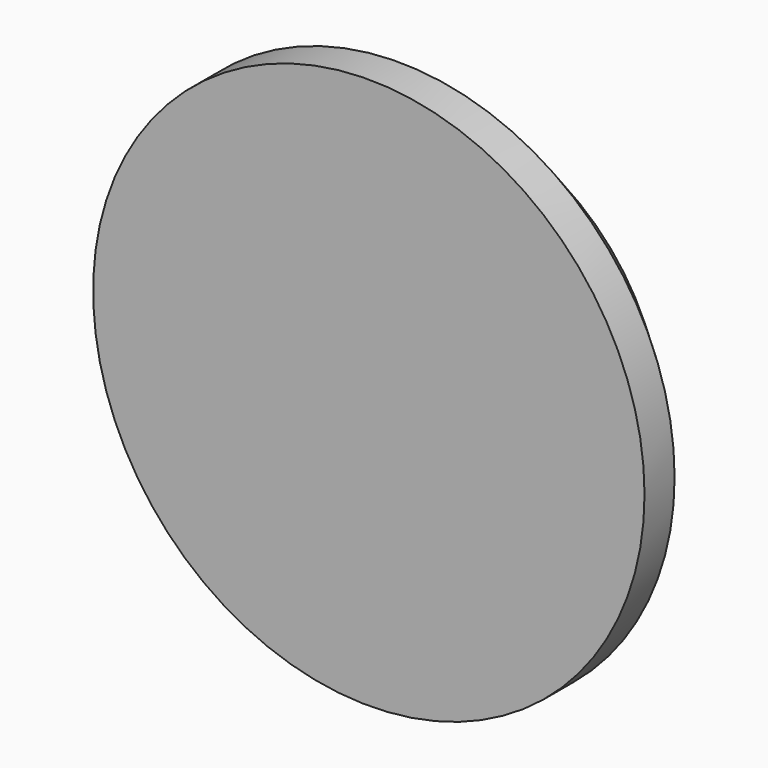
from build123d import *

# Parameters (mm, degrees)
BOX256_W          = 40
BOX256_H          = 20
BOX256_DEPTH      = 40
CYLINDER656_R     = 4.1
CYLINDER656_DEPTH = 10
CYLINDER657_R     = 11
CYLINDER657_DEPTH = 4
CHAMFER_SIZE      = 2.5


with BuildPart() as krychle256:
    # Box256 → Box256 (new body)
    with BuildSketch(Plane(origin=(-20, 110, 30), x_dir=(1, 0, 0), z_dir=(0, 0, 1))):
        with Locations((20, 10)):
            Rectangle(BOX256_W, BOX256_H)
    extrude(amount=BOX256_DEPTH)


with BuildPart() as obj1:
    # Cylinder656 → Cylinder656 (new body)
    with BuildSketch(Plane(origin=(0, 118, 50), x_dir=(1, 0, 0), z_dir=(0, -1, 0))):
        Circle(CYLINDER656_R)
    extrude(amount=CYLINDER656_DEPTH)


with BuildPart() as chamfer_body:
    # Cylinder657 → Cylinder657 (new body)
    with BuildSketch(Plane(origin=(0, 110, 50), x_dir=(1, 0, 0), z_dir=(0, -1, 0))):
        Circle(CYLINDER657_R)
    extrude(amount=CYLINDER657_DEPTH)

    # Cut265: cut obj1
    add(obj1.part, mode=Mode.SUBTRACT)

    # Cut266: cut Krychle256
    add(krychle256.part, mode=Mode.SUBTRACT)

    # Chamfer
    chamfer_edges = [chamfer_body.edges().sort_by_distance(p)[0] for p in [
        (-11, 110, 50),
    ]]
    chamfer(chamfer_edges, length=CHAMFER_SIZE)


solid = chamfer_body.part
